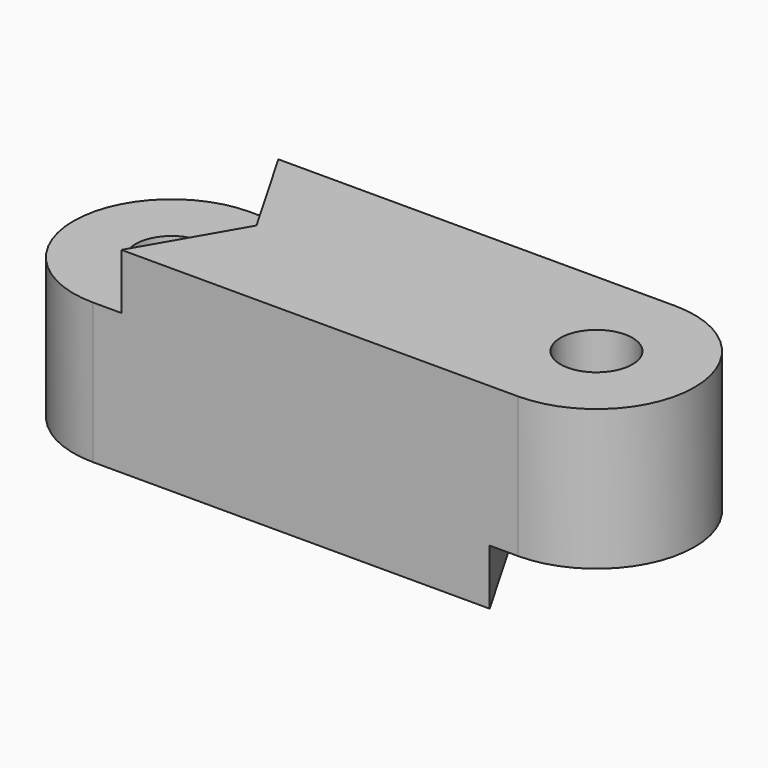
from build123d import *

# Parameters (mm, degrees)
PAD_DEPTH       = 6
SKETCH002_R     = 1.1
POCKET_DEPTH    = 6.001
POCKET001_DEPTH = 1.7
POCKET002_DEPTH = 1.7


with BuildPart() as part:
    # Sketch → Pad (new body)
    with BuildSketch(Plane.XY):
        with BuildLine():
            Line((0, 3), (13, 3))
            ThreePointArc((13, -3), (15.999986, 0), (13, 3))
            Line((0, -3), (13, -3))
            ThreePointArc((0, 3), (-3, 0), (0, -3))
        make_face()
    extrude(amount=PAD_DEPTH)

    # Sketch002 → Pocket (cut, through all)
    with BuildSketch(Plane.XY.offset(6)):
        Circle(SKETCH002_R)
        with Locations((13, 0)):
            Circle(SKETCH002_R)
    extrude(amount=-POCKET_DEPTH, mode=Mode.SUBTRACT)

    # Sketch003 → Pocket001 (cut)
    with BuildSketch(Plane.XY.offset(6)):
        Polygon((2.6, 0), (0.100002, -4.330128), (-3.899998, -4.330128), (-3.899998, 4.330126), (0.099998, 4.330126), align=None)
    extrude(amount=-POCKET001_DEPTH, mode=Mode.SUBTRACT)

    # Sketch004 → Pocket002 (cut)
    with BuildSketch(Plane(origin=(0, 0, 0), x_dir=(1, 0, 0), z_dir=(0, 0, -1))):
        Polygon((10.4, 0), (12.678902, 3.947175), (16.678902, 3.947175), (16.678902, -3.947175), (12.678903, -3.947175), align=None)
    extrude(amount=-POCKET002_DEPTH, mode=Mode.SUBTRACT)


solid = part.part
